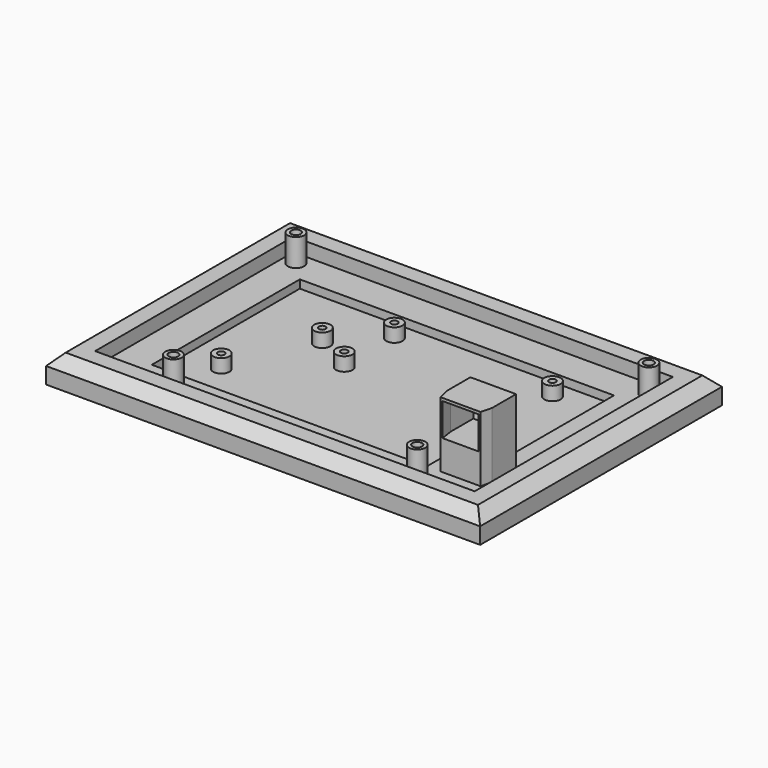
from build123d import *

# Parameters (mm, degrees)
SKETCH_W        = 139.31
SKETCH_H        = 90.92
PAD_DEPTH       = 5
SKETCH001_R     = 1.75
POCKET_DEPTH    = 5.001
SKETCH002_R     = 3
POCKET001_DEPTH = 3
POCKET004_DEPTH = 3
SKETCH009_R     = 3
PAD003_DEPTH    = 5
SKETCH010_R     = 1.25
POCKET005_DEPTH = 5
PAD004_DEPTH    = 24
POCKET007_DEPTH = 6
SKETCH014_W     = 25
SKETCH014_H     = 11
POCKET008_DEPTH = 24.001
SKETCH015_W     = 159.31
SKETCH015_H     = 110.92
SKETCH015_W_2   = 139.31
SKETCH015_H_2   = 90.92
PAD005_DEPTH    = 10
SKETCH016_R     = 3
PAD006_DEPTH    = 10
SKETCH017_R     = 1.75
POCKET009_DEPTH = 15.001
CHAMFER_SIZE    = 4


with BuildPart() as part:
    # Sketch → Pad (new body)
    with BuildSketch(Plane.XY):
        Rectangle(SKETCH_W, SKETCH_H)
    extrude(amount=PAD_DEPTH)

    # Sketch001 (on Face5 of Pad) → Pocket (cut, through all)
    with BuildSketch(Plane(origin=(0, 0, 0), x_dir=(1, 0, 0), z_dir=(0, 0, -1))):
        with Locations((-44.735, 40.67)):
            Circle(SKETCH001_R)
        with Locations((-64.755, -40.56)):
            Circle(SKETCH001_R)
        with Locations((64.755, -40.56)):
            Circle(SKETCH001_R)
        with Locations((44.735, 40.67)):
            Circle(SKETCH001_R)
    extrude(amount=-POCKET_DEPTH, mode=Mode.SUBTRACT)

    # Sketch002 (on Face4 of Pocket) → Pocket001 (cut)
    with BuildSketch(Plane(origin=(0, 0, 0), x_dir=(1, 0, 0), z_dir=(0, 0, -1))):
        with Locations((-44.735, 40.67)):
            Circle(SKETCH002_R)
        with Locations((44.735, 40.67)):
            Circle(SKETCH002_R)
        with Locations((64.755, -40.56)):
            Circle(SKETCH002_R)
        with Locations((-64.755, -40.56)):
            Circle(SKETCH002_R)
    extrude(amount=-POCKET001_DEPTH, mode=Mode.SUBTRACT)

    # Sketch008 → Pocket004 (cut)
    with BuildSketch(Plane.XY.offset(5)):
        Polygon((-57.659628, -34.455423), (-57.659628, 33.450305), (57.659628, 33.450305), (57.659628, -13.955423), (43.279628, -13.955423), (43.279628, -34.455423), align=None)
    extrude(amount=-POCKET004_DEPTH, mode=Mode.SUBTRACT)

    # Sketch009 (on Face25 of Pocket004) → Pad003 (join)
    with BuildSketch(Plane.XY.offset(2)):
        with Locations((-44.159628, -19.455423)):
            Circle(SKETCH009_R)
        with Locations((-31.459628, 11.024577)):
            Circle(SKETCH009_R)
        with Locations((-17.340372, 26.450305)):
            Circle(SKETCH009_R)
        with Locations((-17.340372, 3.450305)):
            Circle(SKETCH009_R)
        with Locations((40.659628, 26.450305)):
            Circle(SKETCH009_R)
        with Locations((40.659628, 3.450305)):
            Circle(SKETCH009_R)
    extrude(amount=PAD003_DEPTH)

    # Sketch010 (on Face33 of Pad003) → Pocket005 (cut)
    with BuildSketch(Plane.XY.offset(7)):
        with Locations((-44.159628, -19.455423)):
            Circle(SKETCH010_R)
        with Locations((-31.459628, 11.024577)):
            Circle(SKETCH010_R)
        with Locations((-17.340372, 3.450305)):
            Circle(SKETCH010_R)
        with Locations((-17.340372, 26.450305)):
            Circle(SKETCH010_R)
        with Locations((40.659628, 26.450305)):
            Circle(SKETCH010_R)
        with Locations((40.659628, 3.450305)):
            Circle(SKETCH010_R)
    extrude(amount=-POCKET005_DEPTH, mode=Mode.SUBTRACT)

    # Sketch011 → Pad004 (join)
    with BuildSketch(Plane.XY.offset(5)):
        Polygon((61.655, -45.46), (49.655, -45.46), (49.655, -39.46), (47.28, -30.46), (47.28, -19.46), (64.03, -19.46), (64.03, -30.46), (61.655, -39.46), align=None)
    extrude(amount=PAD004_DEPTH)

    # Sketch013 → Pocket007 (cut, symmetric)
    with BuildSketch(Plane.XY.offset(22)):
        Polygon((48.355, -19.46), (62.955, -19.46), (62.955, -29.96), (60.655, -44.46), (50.655, -44.46), (48.355, -29.96), align=None)
    extrude(amount=POCKET007_DEPTH, both=True, mode=Mode.SUBTRACT)

    # Sketch014 (on Face5 of Pocket007) → Pocket008 (cut, through all)
    with BuildSketch(Plane.XY.offset(5)):
        with Locations((57.155, -39.96)):
            Rectangle(SKETCH014_W, SKETCH014_H)
    extrude(amount=POCKET008_DEPTH, mode=Mode.SUBTRACT)

    # Sketch015 → Pad005 (join)
    with BuildSketch(Plane.XY):
        Rectangle(SKETCH015_W, SKETCH015_H)
        Rectangle(SKETCH015_W_2, SKETCH015_H_2, mode=Mode.SUBTRACT)
    extrude(amount=PAD005_DEPTH)

    # Sketch016 (on Face10 of Pad005) → Pad006 (join)
    with BuildSketch(Plane.XY.offset(5)):
        with Locations((64.755, 40.56)):
            Circle(SKETCH016_R)
        with Locations((44.735, -40.67)):
            Circle(SKETCH016_R)
        with Locations((-44.735, -40.67)):
            Circle(SKETCH016_R)
        with Locations((-64.755, 40.56)):
            Circle(SKETCH016_R)
    extrude(amount=PAD006_DEPTH)

    # Sketch017 (on Face54 of Pad006) → Pocket009 (cut, through all)
    with BuildSketch(Plane.XY.offset(15)):
        with Locations((-64.755, 40.56)):
            Circle(SKETCH017_R)
        with Locations((64.755, 40.56)):
            Circle(SKETCH017_R)
        with Locations((44.735, -40.67)):
            Circle(SKETCH017_R)
        with Locations((-44.735, -40.67)):
            Circle(SKETCH017_R)
    extrude(amount=-POCKET009_DEPTH, mode=Mode.SUBTRACT)

    # Chamfer
    chamfer_edges = [part.edges().sort_by_distance(p)[0] for p in [
        (0, -55.46, 10),
        (-79.655, 0, 10),
        (0, 55.46, 10),
        (79.655, 0, 10),
    ]]
    chamfer(chamfer_edges, length=CHAMFER_SIZE)


solid = part.part
